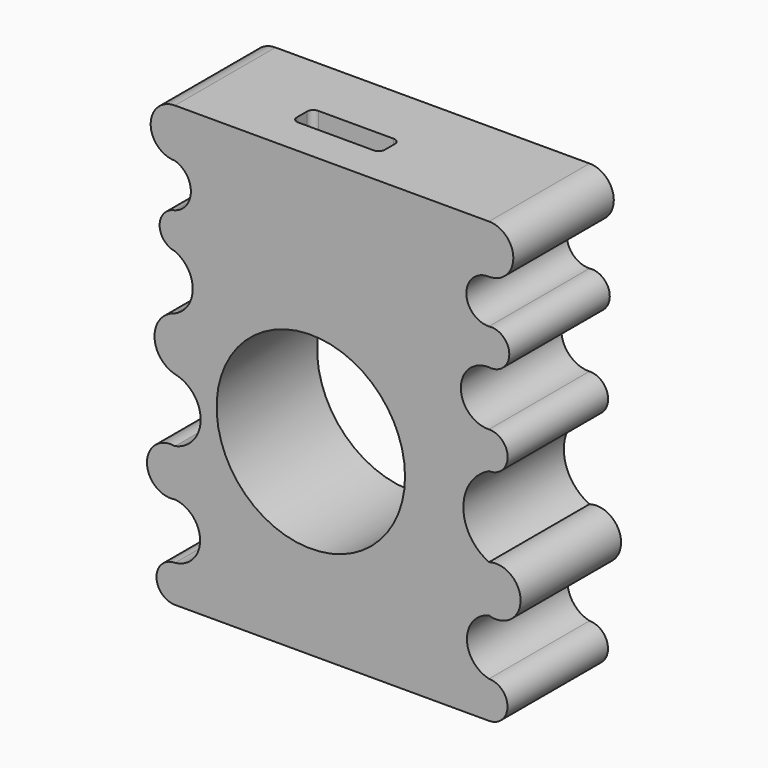
from build123d import *

# Parameters (mm, degrees)
F1_DEPTH = 100
F4_DEPTH = 145
F5_W     = 129.036147
F5_H     = 6.641566
F6_DEPTH = 40
F2_R     = 75
F7_DEPTH = 319


with BuildPart() as f1:
    # F0 (on Front) → F1 (new body)
    with BuildSketch(Plane.XZ):
        with BuildLine():
            Line((175, 175), (-75, 175))
            ThreePointArc((-75, 175), (-94.36561, 155.63439), (-75, 136.26878))
            ThreePointArc((-75, 136.26878), (-62.333828, 118.8742), (-75, 101.47962))
            ThreePointArc((-75, 101.47962), (-87.223096, 87.129094), (-75, 72.778568))
            ThreePointArc((-75, 72.778568), (-60.874781, 51.035345), (-75, 29.292122))
            ThreePointArc((-75, 29.292122), (-91.304273, 7.983763), (-75, -13.324595))
            ThreePointArc((-75, -13.324595), (-54.561081, -38.546733), (-75, -63.768871))
            ThreePointArc((-75, -63.768871), (-97.317144, -82.468044), (-75, -101.167217))
            ThreePointArc((-75, -101.167217), (-54.975452, -123.345301), (-75, -145.523384))
            ThreePointArc((-75, -145.523384), (-89.738308, -160.261692), (-75, -175))
            Line((-75, -175), (175, -175))
            ThreePointArc((175, -175), (189.738308, -160.261692), (175, -145.523384))
            ThreePointArc((175, -145.523384), (157.45425, -123.345301), (175, -101.167217))
            ThreePointArc((175, -101.167217), (200.133524, -82.468044), (175, -63.768871))
            ThreePointArc((175, -63.768871), (154.578948, -31.884436), (175, 0))
            ThreePointArc((175, 0), (189.86524, 14.646061), (175, 29.292122))
            ThreePointArc((175, 29.292122), (152.58439, 51.035345), (175, 72.778568))
            ThreePointArc((175, 72.778568), (191.151996, 87.129094), (175, 101.47962))
            ThreePointArc((175, 101.47962), (156.968432, 118.8742), (175, 136.26878))
            ThreePointArc((175, 136.26878), (194.36561, 155.63439), (175, 175))
        make_face()
    extrude(amount=F1_DEPTH)

    # F3 (on face) → F4 (cut)
    with BuildSketch(Plane.XY.offset(175)):
        with BuildLine():
            Line((59.123203, -50), (-0.876797, -50))
            ThreePointArc((-0.876797, -50), (-4.412331, -51.464466), (-5.876797, -55))
            Line((-5.876797, -55), (-5.876797, -65))
            ThreePointArc((-5.876797, -65), (-4.412331, -68.535534), (-0.876797, -70))
            Line((-0.876797, -70), (59.123203, -70))
            ThreePointArc((59.123203, -70), (62.658737, -68.535534), (64.123203, -65))
            Line((64.123203, -65), (64.123203, -55))
            ThreePointArc((64.123203, -55), (62.658737, -51.464466), (59.123203, -50))
        make_face()
    extrude(amount=-F4_DEPTH, mode=Mode.SUBTRACT)

    # F5 (on face) → F6 (join)
    with BuildSketch(Plane.XZ.offset(100)):
        with Locations((5.100577, 78.275606)):
            Rectangle(F5_W, F5_H)
    extrude(amount=-F6_DEPTH)

    # F2 (on face) → F7 (cut)
    with BuildSketch(Plane.XZ.offset(100)):
        with Locations((33.149149, -25.5008)):
            Circle(F2_R)
    extrude(amount=-F7_DEPTH, mode=Mode.SUBTRACT)


solid = f1.part
